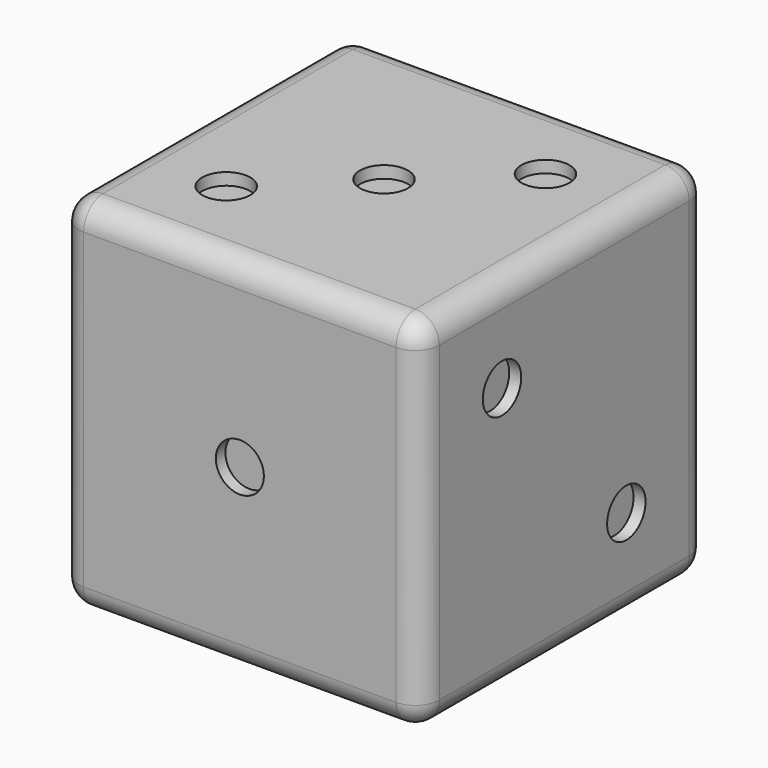
from build123d import *

# Parameters (mm, degrees)
F0_W      = 15
F0_H      = 15
F1_DEPTH  = 15
F2_R      = 1
F4_DEPTH  = 0.5
F5_R      = 1
F6_DEPTH  = 0.5
F7_R      = 1
F8_DEPTH  = 0.5
F9_R      = 1
F10_DEPTH = 0.5
F11_R     = 1
F12_DEPTH = 0.5
F13_R     = 1
F14_DEPTH = 0.5
F15_R     = 1


with BuildPart() as f1:
    # F0 (on Front) → F1 (new body)
    with BuildSketch(Plane.XZ):
        Rectangle(F0_W, F0_H)
    extrude(amount=F1_DEPTH)

    # F2 (on face) → F4 (cut)
    with BuildSketch(Plane.XZ.offset(15)):
        Circle(F2_R)
    extrude(amount=-F4_DEPTH, mode=Mode.SUBTRACT)

    # F5 (on face) → F6 (cut)
    with BuildSketch(Plane(origin=(0, 0, 0), x_dir=(-1, 0, 0), z_dir=(0, 1, 0))):
        with Locations((3.785098, -3.737234)):
            Circle(F5_R)
        with Locations((3.785098, 0)):
            Circle(F5_R)
        with Locations((3.785098, 3.375805)):
            Circle(F5_R)
        with Locations((-3.786711, -3.737234)):
            Circle(F5_R)
        with Locations((-3.786711, 0)):
            Circle(F5_R)
        with Locations((-3.786711, 3.375805)):
            Circle(F5_R)
    extrude(amount=-F6_DEPTH, mode=Mode.SUBTRACT)

    # F7 (on face) → F8 (cut)
    with BuildSketch(Plane(origin=(0, 0, -7.5), x_dir=(1, 0, 0), z_dir=(0, 0, -1))):
        with Locations((3.532658, 3.806027)):
            Circle(F7_R)
        with Locations((3.532658, 11.167861)):
            Circle(F7_R)
        with Locations((-3.600359, 3.806027)):
            Circle(F7_R)
        with Locations((-3.600359, 11.167861)):
            Circle(F7_R)
    extrude(amount=-F8_DEPTH, mode=Mode.SUBTRACT)

    # F9 (on face) → F10 (cut)
    with BuildSketch(Plane(origin=(-7.5, 0, 0), x_dir=(0, -1, 0), z_dir=(-1, 0, 0))):
        with Locations((7.5, 0)):
            Circle(F9_R)
        with Locations((3.496341, -3.811767)):
            Circle(F9_R)
        with Locations((11.03965, -3.811767)):
            Circle(F9_R)
        with Locations((11.03965, 3.736319)):
            Circle(F9_R)
        with Locations((3.496341, 3.736319)):
            Circle(F9_R)
    extrude(amount=-F10_DEPTH, mode=Mode.SUBTRACT)

    # F11 (on face) → F12 (cut)
    with BuildSketch(Plane.YZ.offset(7.5)):
        with Locations((-4.266871, -3.594229)):
            Circle(F11_R)
        with Locations((-10.73485, 3.598094)):
            Circle(F11_R)
    extrude(amount=-F12_DEPTH, mode=Mode.SUBTRACT)

    # F13 (on face) → F14 (cut)
    with BuildSketch(Plane.XY.offset(7.5)):
        with Locations((3.862818, -3.929111)):
            Circle(F13_R)
        with Locations((0, -7.5)):
            Circle(F13_R)
        with Locations((-3.697416, -11.085594)):
            Circle(F13_R)
    extrude(amount=-F14_DEPTH, mode=Mode.SUBTRACT)

    # F15
    f15_edges = [f1.edges().sort_by_distance(p)[0] for p in [
        (7.5, 0, 0),
        (0, 0, -7.5),
        (7.5, -7.5, -7.5),
        (-7.5, 0, 0),
        (0, 0, 7.5),
        (-7.5, -7.5, 7.5),
        (7.5, -7.5, 7.5),
        (0, -15, 7.5),
        (-7.5, -15, 0),
        (-7.5, -7.5, -7.5),
        (7.5, -15, 0),
        (0, -15, -7.5),
    ]]
    fillet(f15_edges, radius=F15_R)


solid = f1.part
